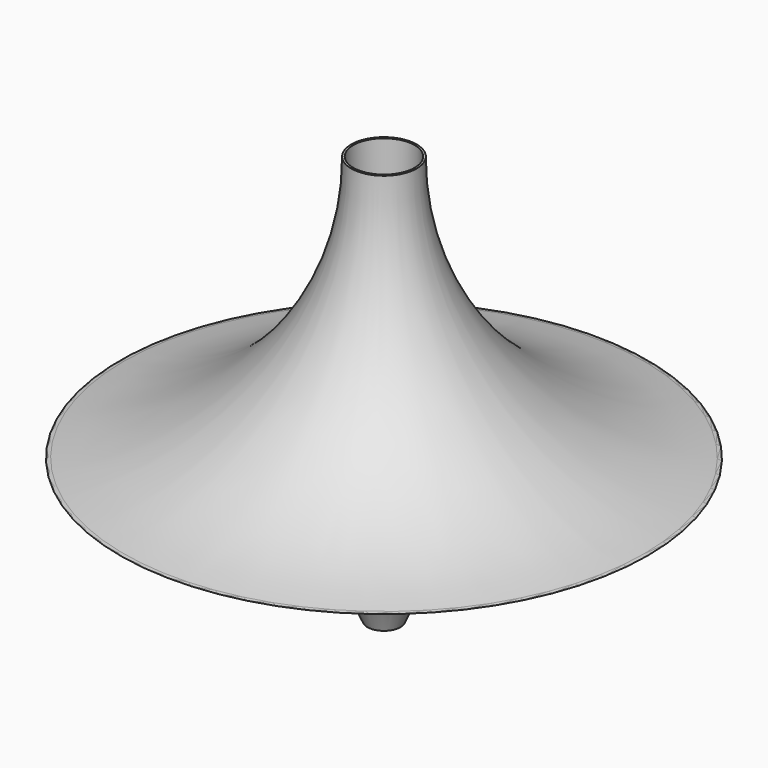
from build123d import *

# Parameters (mm, degrees)
F2_W     = 4.7625
F2_H     = 0.9399531578
F4_DEPTH = 9.525
F5_R     = 1.5875
F6_DEPTH = 10.16


with BuildPart() as f1:
    # F0 (on Front) → F1 (revolve)
    with BuildSketch(Plane.XZ):
        with BuildLine():
            ThreePointArc((40.9734362515, 0), (40.6921706726, 0.0401945711), (40.4105939212, 0.0781479958))
            ThreePointArc((40.4105939212, 0.0781479958), (40.6918806534, 0.0381057766), (40.9734362515, 0))
        make_face()
    revolve(axis=Axis((0, 0, 9.465565093), (0, 0, -1)))


with BuildPart() as f1b:
    # F0 (on Front) → F1, piece 2 (revolve)
    with BuildSketch(Plane.XZ):
        with BuildLine():
            ThreePointArc((40.4105939212, 0.0781479958), (15.0460443882, 14.0344052695), (5.08, 41.215565093))
            Line((5.08, 41.215565093), (0, 41.215565093))
            Line((0, 41.215565093), (0, -22.284434907))
            Line((0, -22.284434907), (2.5661256667, -22.284434907))
            ThreePointArc((2.5661256667, -22.284434907), (17.6353207797, -4.5825991478), (40.4105939212, 0.0781479958))
        make_face()
    revolve(axis=Axis((0, 0, 9.465565093), (0, 0, -1)))


with BuildPart() as f3:
    # F2 (on Front) → F3 (revolve)
    with BuildSketch(Plane.XZ):
        with Locations((2.38125, 40.7487400723)):
            Rectangle(F2_W, F2_H)
    revolve(axis=Axis((0, 0, 40.7487400723), (0, 0, 1)))


with BuildPart() as f4_tool:
    # F4 (cut): a face of the model
    f4_faces = [f3.part.faces().sort_by_distance(p)[0] for p in [
        (0, 0, 41.2187166512),
    ]]
    extrude(f4_faces, amount=-F4_DEPTH)


with BuildPart() as f1b_1:
    add(f1b.part)

    # F4: cut by f4_tool
    add(f4_tool.part, mode=Mode.SUBTRACT)

    # F5 (on face) → F6 (cut)
    with BuildSketch(Plane(origin=(0, 0, -22.284434907), x_dir=(1, 0, 0), z_dir=(0, 0, -1))):
        Circle(F5_R)
    extrude(amount=-F6_DEPTH, mode=Mode.SUBTRACT)


with BuildPart() as f3_1:
    add(f3.part)

    # F4: cut by f4_tool
    add(f4_tool.part, mode=Mode.SUBTRACT)


solid = Compound([f1.part, f1b_1.part])
